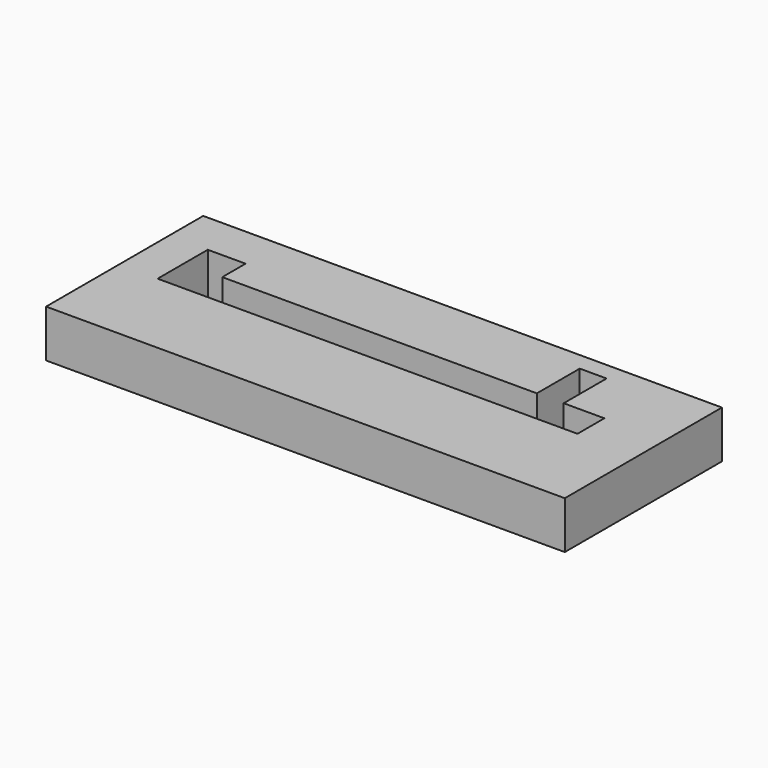
from build123d import *

# Parameters (mm, degrees)
F0_W     = 277.675078
F0_H     = 105.133705
F1_DEPTH = 25.4


with BuildPart() as f1:
    # F0 (on Top) → F1 (new body)
    with BuildSketch(Plane.XY):
        with Locations((-1.566209, 3.712259)):
            Rectangle(F0_W, F0_H)
        Polygon((104.988299, 0), (-99.562787, 0), (-110.789269, 0), (-119.78481, 0), (-119.78481, 33.559617), (-99.562787, 33.559617), (-99.562787, 17.97889), (68.845965, 17.97889), (68.845965, 46.673011), (83.209686, 46.673011), (83.209686, 17.97889), (104.988299, 17.97889), align=None, mode=Mode.SUBTRACT)
    extrude(amount=F1_DEPTH)


solid = f1.part
